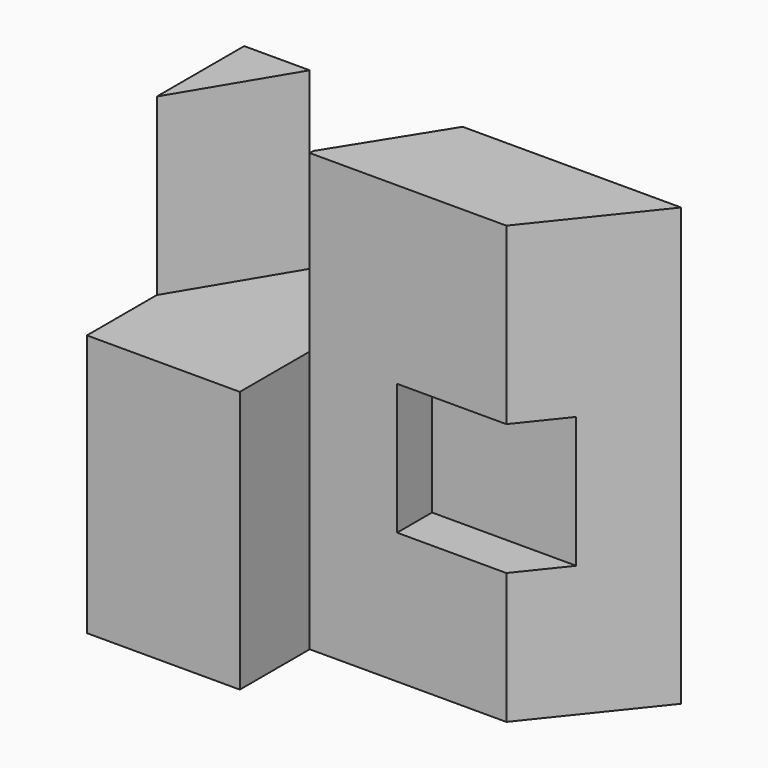
from build123d import *

# Parameters (mm, degrees)
F0_W      = 100
F0_H      = 45
F1_DEPTH  = 100
F2_W      = 65
F2_H      = 20
F3_DEPTH  = 100.001
F4_W      = 35
F4_H      = 40
F5_DEPTH  = 45.001
F7_DEPTH  = 40
F9_DEPTH  = 85
F10_W     = 33
F10_H     = 10
F11_DEPTH = 70
F12_W     = 33
F12_H     = 40
F13_DEPTH = 10
F15_DEPTH = 100.001


with BuildPart() as f1:
    # F0 (on Top) → F1 (new body)
    with BuildSketch(Plane.XY):
        with Locations((50, 22.5)):
            Rectangle(F0_W, F0_H)
    extrude(amount=F1_DEPTH)

    # F2 (on face) → F3 (cut, through all)
    with BuildSketch(Plane.XY.offset(100)):
        with Locations((67.5, 10)):
            Rectangle(F2_W, F2_H)
    extrude(amount=-F3_DEPTH, mode=Mode.SUBTRACT)

    # F4 (on face) → F5 (cut, through all)
    with BuildSketch(Plane.XZ):
        with Locations((17.5, 80)):
            Rectangle(F4_W, F4_H)
    extrude(amount=-F5_DEPTH, mode=Mode.SUBTRACT)

    # F6 (on face) → F7 (join)
    with BuildSketch(Plane.XY.offset(60)):
        Polygon((0, 20), (15, 45), (0, 45), align=None)
    extrude(amount=F7_DEPTH)

    # F8 (on face) → F9 (cut)
    with BuildSketch(Plane.XY.offset(100)):
        Polygon((35, 21), (50, 45), (35, 45), align=None)
    extrude(amount=-F9_DEPTH, mode=Mode.SUBTRACT)

    # F10 (on face) → F11 (cut)
    with BuildSketch(Plane.XY.offset(100)):
        with Locations((71.5, 25)):
            Rectangle(F10_W, F10_H)
    extrude(amount=-F11_DEPTH, mode=Mode.SUBTRACT)

    # F12 (on face) → F13 (join)
    with BuildSketch(Plane.XZ.offset(-30)):
        with Locations((71.5, 80)):
            Rectangle(F12_W, F12_H)
    extrude(amount=F13_DEPTH)

    # F14 (on face) → F15 (cut, through all)
    with BuildSketch(Plane.XY.offset(100)):
        Polygon((100, 20), (100, 45), (80, 20), align=None)
    extrude(amount=-F15_DEPTH, mode=Mode.SUBTRACT)


solid = f1.part
